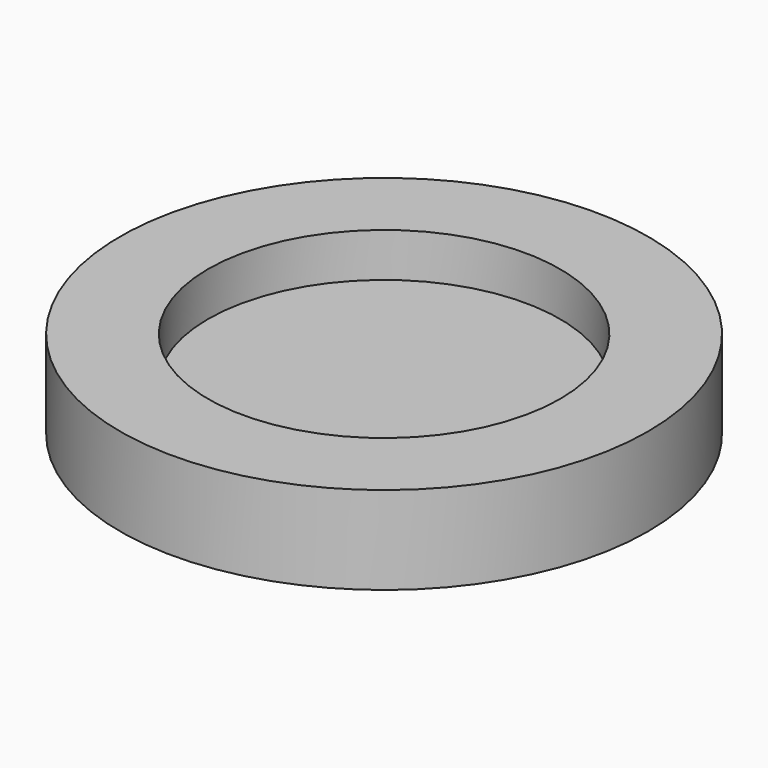
from build123d import *

# Parameters (mm, degrees)
SKETCH_R     = 12
PAD_DEPTH    = 2
SKETCH001_R  = 8
POCKET_DEPTH = 2


with BuildPart() as part:
    # Sketch → Pad (new body, symmetric)
    with BuildSketch(Plane.XY):
        Circle(SKETCH_R)
    extrude(amount=PAD_DEPTH, both=True)

    # Sketch001 → Pocket (cut)
    with BuildSketch(Plane.XY):
        Circle(SKETCH001_R)
    extrude(amount=POCKET_DEPTH, mode=Mode.SUBTRACT)


solid = part.part
